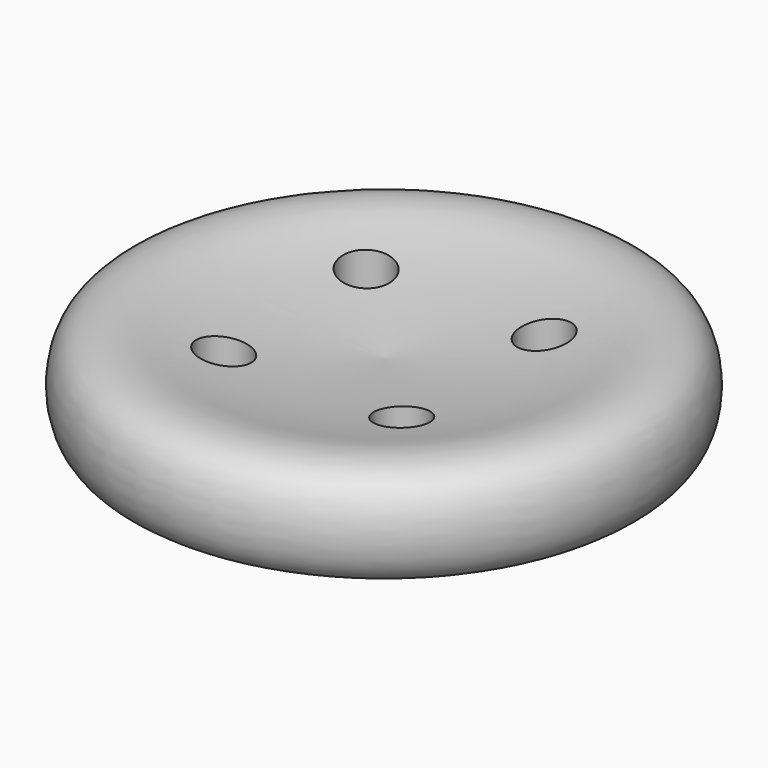
from build123d import *

# Parameters (mm, degrees)
F3_D     = 2
F3_DEPTH = 6
F3_TIP   = 0.600860619


with BuildPart() as f1:
    # F0 (on Front) → F1 (revolve)
    with BuildSketch(Plane.XZ):
        with BuildLine():
            add(Edge.make_bspline(
                [(0, 0), (-2.5916354249, 0.0110878055), (-6.705287905, 0.1773759557), (-10.5206632367, -0.1002787078), (-10.4895563813, 3.8767460276), (-7.3193783706, 4.3141160898), (-6.5741734579, 3.4184989054), (0, 2.9808259569)],
                knots=[0, 0, 0, 0, 0.2587894084, 0.4263131389, 0.5879045759, 0.7186922946, 1, 1, 1, 1], degree=3))
            Line((0, 0), (0, 2.9808259569))
        make_face()
    revolve(axis=Axis((0, 0, 3.9293672889), (0, 0, 1)))

    # F3
    with Locations(Plane(origin=(0, 0, 0), x_dir=(1, 0, 0), z_dir=(0, 0, -1))):
        with Locations((-3.5, 3.5), (3.5, 3.5), (-3.5, -3.5), (3.5, -3.5)):
            Hole(F3_D / 2, depth=F3_DEPTH)
            with Locations((0, 0, -(F3_DEPTH + F3_TIP / 2))):  # 118° drill point
                Cone(0, F3_D / 2, F3_TIP, mode=Mode.SUBTRACT)


solid = f1.part
